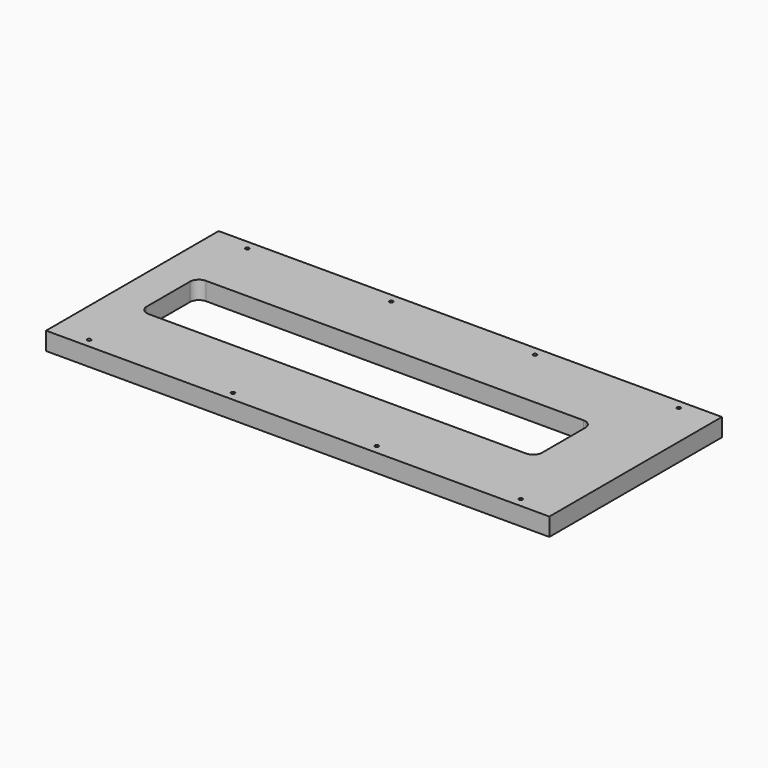
from build123d import *

# Parameters (mm, degrees)
F0_W           = 355.6
F0_H           = 152.4
F1_DEPTH       = 12.7
F3_DEPTH       = 12.701
F5_D           = 2.54
F5_CSINK_D     = 6.604
F5_CSINK_ANGLE = 90


with BuildPart() as f1:
    # F0 (on Top) → F1 (new body)
    with BuildSketch(Plane.XY):
        Rectangle(F0_W, F0_H)
    extrude(amount=F1_DEPTH)

    # F2 (on face) → F3 (cut, through all)
    with BuildSketch(Plane.XY.offset(12.7)):
        with BuildLine():
            Line((120.65, 25.4), (-146.05, 25.4))
            ThreePointArc((-146.05, 25.4), (-150.540128, 23.540128), (-152.4, 19.05))
            Line((-152.4, 19.05), (-152.4, -19.05))
            ThreePointArc((-152.4, -19.05), (-150.540128, -23.540128), (-146.05, -25.4))
            Line((-146.05, -25.4), (120.65, -25.4))
            ThreePointArc((120.65, -25.4), (125.140128, -23.540128), (127, -19.05))
            Line((127, -19.05), (127, 19.05))
            ThreePointArc((127, 19.05), (125.140128, 23.540128), (120.65, 25.4))
        make_face()
    extrude(amount=-F3_DEPTH, mode=Mode.SUBTRACT)

    # F5 (through all)
    with Locations(Plane(origin=(0, 0, 0), x_dir=(1, 0, 0), z_dir=(0, 0, -1))):
        with Locations((-152.4, 69.85), (-50.8, 69.85), (50.8, 69.85), (152.4, 69.85), (152.4, -69.85), (50.8, -69.85), (-50.8, -69.85), (-152.4, -69.85)):
            CounterSinkHole(F5_D / 2, F5_CSINK_D / 2, counter_sink_angle=F5_CSINK_ANGLE)


solid = f1.part
